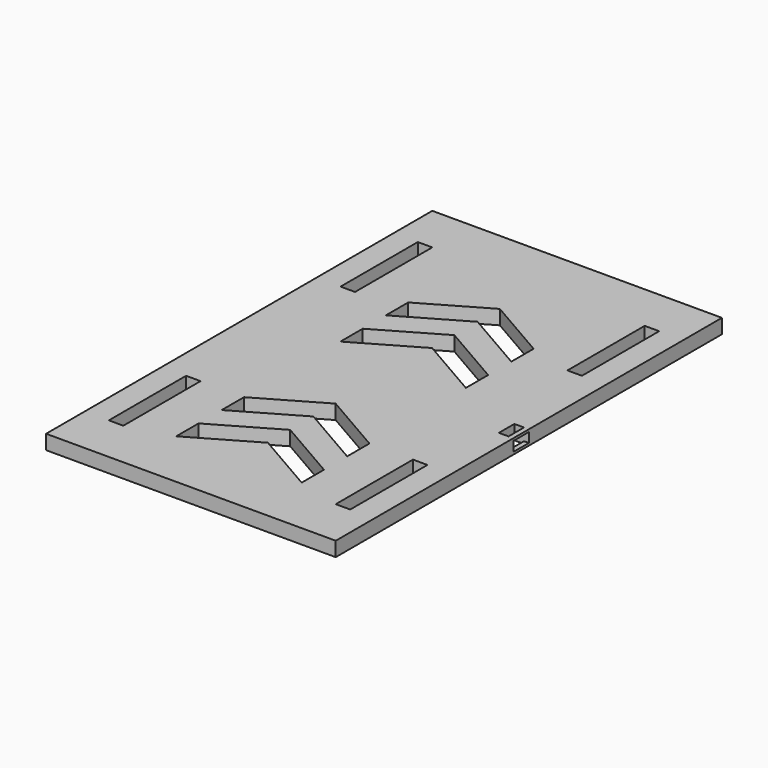
from build123d import *

# Parameters (mm, degrees)
F0_W     = 3
F0_H     = 20
F0_W_2   = 2
F0_H_2   = 4
F1_DEPTH = 3
F3_W     = 4
F3_H     = 2
F4_DEPTH = 3


with BuildPart() as f1:
    # F0 (on Top) → F1 (new body)
    with BuildSketch(Plane.XY):
        Polygon((-25, 0), (-30, 0), (-30, -50), (0, 0), align=None)
        with Locations((-23.5, -20)):
            Rectangle(F0_W, F0_H, mode=Mode.SUBTRACT)
        Polygon((0, 0), (-30, -50), (-30, -100), (0, -100), (30, -100), (30, -50), (30, 0), align=None)
        with Locations((-23.5, -80)):
            Rectangle(F0_W, F0_H, mode=Mode.SUBTRACT)
        Polygon((12.9807621135, -87.5470053838), (0, -80.0525588833), (-0.0096189432, -80.0470053838), (-13, -87.5470053838), (-13, -81.7735026919), (-0.0096189432, -74.2735026919), (12.9807621135, -81.7735026919), align=None, mode=Mode.SUBTRACT)
        Polygon((-13, -70), (-0.0096189432, -62.5), (12.9807621135, -70), (12.9807621135, -75.7735026919), (-0.0096189432, -68.2735026919), (-13, -75.7735026919), align=None, mode=Mode.SUBTRACT)
        with Locations((23.5, -80)):
            Rectangle(F0_W, F0_H, mode=Mode.SUBTRACT)
        with Locations((28, -52)):
            Rectangle(F0_W_2, F0_H_2, mode=Mode.SUBTRACT)
        Polygon((-12.9903810568, -39.2735026919), (0, -31.7735026919), (12.9903810568, -39.2735026919), (12.9903810568, -45.0470053838), (0, -37.5470053838), (-12.9903810568, -45.0470053838), align=None, mode=Mode.SUBTRACT)
        Polygon((-12.9903810568, -27.5), (0, -20), (12.9903810568, -27.5), (12.9903810568, -33.2735026919), (0, -25.7735026919), (-12.9903810568, -33.2735026919), align=None, mode=Mode.SUBTRACT)
        with Locations((23.5, -20)):
            Rectangle(F0_W, F0_H, mode=Mode.SUBTRACT)
    extrude(amount=F1_DEPTH)

    # F3 (on offset) → F4 (cut, through all)
    with BuildSketch(Plane.YZ.offset(30)):
        with Locations((-52, 1.5)):
            Rectangle(F3_W, F3_H)
    extrude(amount=-F4_DEPTH, mode=Mode.SUBTRACT)


solid = f1.part
